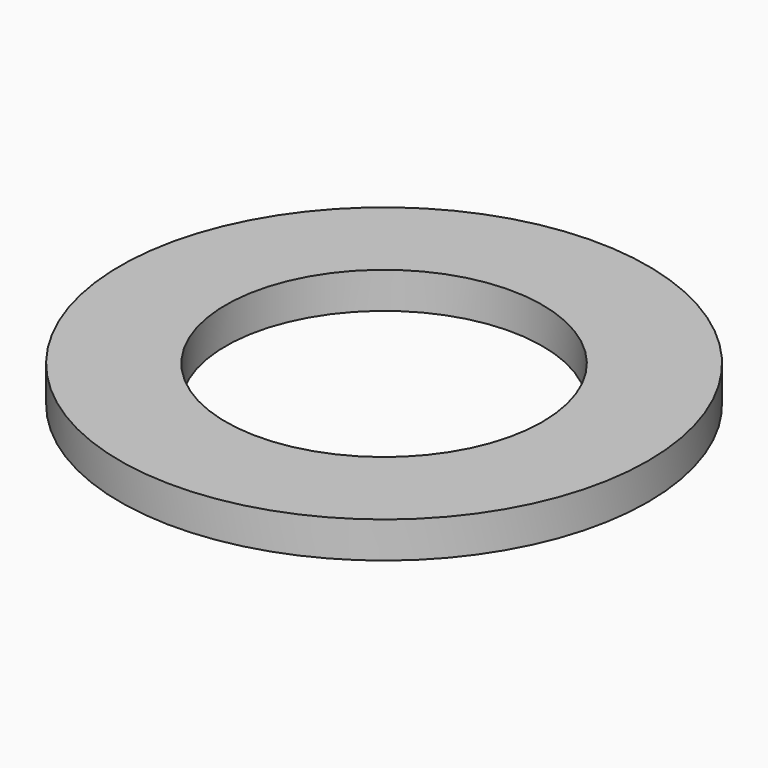
from build123d import *

# Parameters (mm, degrees)
CYLINDER008_R     = 17.5
CYLINDER008_DEPTH = 4
CYLINDER007_R     = 29.17
CYLINDER007_DEPTH = 4


with BuildPart() as cylinder008:
    # Cylinder008 → Cylinder008 (new body)
    with BuildSketch(Plane.XY.offset(45)):
        Circle(CYLINDER008_R)
    extrude(amount=CYLINDER008_DEPTH)


with BuildPart() as cut007:
    # Cylinder007 → Cylinder007 (new body)
    with BuildSketch(Plane.XY.offset(45)):
        Circle(CYLINDER007_R)
    extrude(amount=CYLINDER007_DEPTH)

    # Cut007: cut Cylinder008
    add(cylinder008.part, mode=Mode.SUBTRACT)


solid = cut007.part
